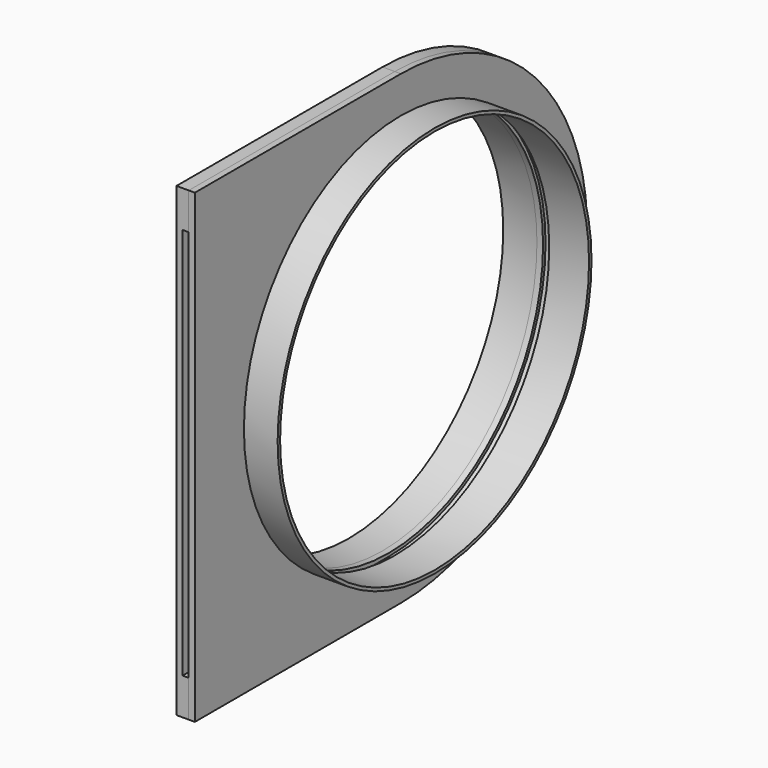
from build123d import *

# Parameters (mm, degrees)
F3_R      = 203.2
F3_R_2    = 200.025
F4_DEPTH  = 34.925
F0_R      = 203.2
F0_R_2    = 200.025
F5_DEPTH  = 34.925
F7_R      = 200.025
F8_DEPTH  = 6.35
F13_DEPTH = 6.35


with BuildPart() as f4:
    # F3 (on line) → F4 (new body)
    with BuildSketch(Plane.YZ.offset(-88.9)):
        Circle(F3_R)
        Circle(F3_R_2, mode=Mode.SUBTRACT)
    extrude(amount=F4_DEPTH)


with BuildPart() as f5:
    # F0 (on Right) → F5 (new body)
    with BuildSketch(Plane.YZ):
        Circle(F0_R)
        Circle(F0_R_2, mode=Mode.SUBTRACT)
    extrude(amount=-F5_DEPTH)

    # F10: F8 across plane


with BuildPart() as f8:
    # F7 (on offset) → F8 (new body)
    with BuildSketch(Plane.YZ.offset(-53.975)):
        with BuildLine():
            ThreePointArc((0, -241.3), (-241.3, 0), (0, 241.3))
            Line((0, 241.3), (-266.7, 241.3))
            Line((-266.7, 241.3), (-266.7, -241.3))
            Line((-266.7, -241.3), (0, -241.3))
        make_face()
        with BuildLine():
            ThreePointArc((0, -241.3), (170.6248663003, -170.6248663003), (241.3, 0))
            ThreePointArc((241.3, 0), (170.6248663003, 170.6248663003), (0, 241.3))
            ThreePointArc((0, 241.3), (-241.3, 0), (0, -241.3))
        make_face()
        Circle(F7_R, mode=Mode.SUBTRACT)
    extrude(amount=F8_DEPTH)


with BuildPart() as f5_1:
    add(f5.part)
    add(f8.part.mirror(Plane(origin=(-44.45, -82.5279579477, 0), x_dir=(0, 1, 0), z_dir=(1, 0, 0))))


with BuildPart() as f8_1:
    add(f8.part)

    # F12 (on offset) → F13 (join)
    with BuildSketch(Plane.YZ.offset(-47.625)):
        with BuildLine():
            Line((-266.7, 203.2), (0, 203.2))
            ThreePointArc((0, 203.2), (203.2, 0), (0, -203.2))
            Line((0, -203.2), (-266.7, -203.2))
            Line((-266.7, -203.2), (-266.7, -241.3))
            Line((-266.7, -241.3), (0, -241.3))
            ThreePointArc((0, -241.3), (241.3, 0), (0, 241.3))
            Line((0, 241.3), (-266.7, 241.3))
            Line((-266.7, 241.3), (-266.7, 203.2))
        make_face()
    extrude(amount=F13_DEPTH)


solid = Compound([f4.part, f5_1.part, f8_1.part])
